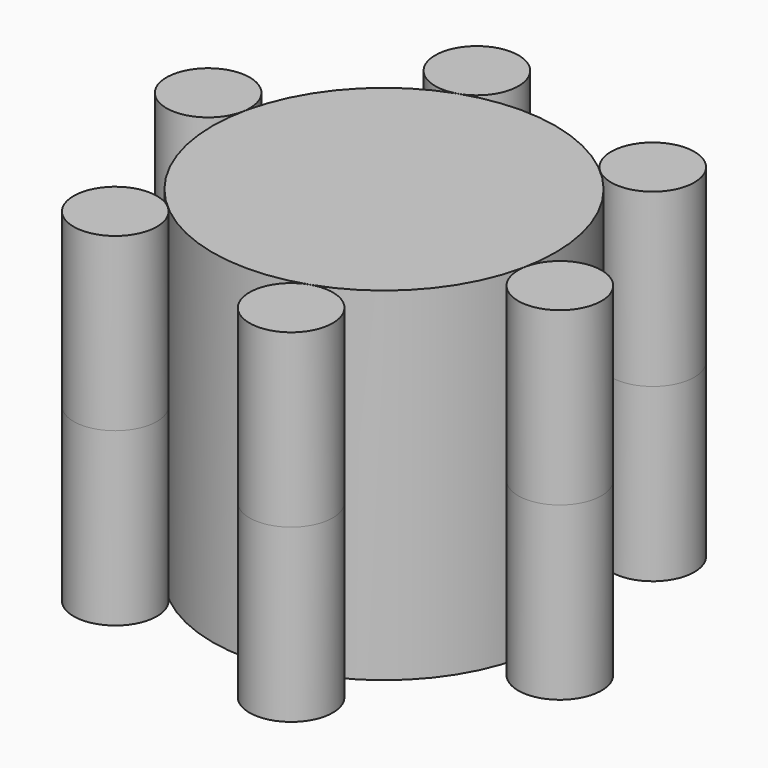
from build123d import *

# Parameters (mm, degrees)
F1_DEPTH = 50
F2_COUNT = 6


with BuildPart() as f1:
    # F0 (on Top) → F1 (new body, symmetric)
    with BuildSketch(Plane.XY):
        with BuildLine():
            ThreePointArc((-48.8104737327, 12.1009636917), (-73.0439579638, 13.289177391), (-49.0429563013, 9.7359353544))
            ThreePointArc((-49.0429563013, 9.7359353544), (-48.8687341043, 10.9127499924), (-48.8104737327, 12.1009636917))
        make_face()
    extrude(amount=F1_DEPTH, both=True)


with BuildPart() as f1b:
    # F0 (on Top) → F1, piece 2 (new body, symmetric)
    with BuildSketch(Plane.XY):
        with BuildLine():
            ThreePointArc((-49.0429563013, 9.7359353544), (-4.8914305133, -49.7601638616), (50, 0))
            ThreePointArc((50, 0), (4.8914305133, 49.7601638616), (-49.0429563013, 9.7359353544))
        make_face()
    extrude(amount=F1_DEPTH, both=True)


with BuildPart() as f2_1:
    # F2: instance of F1
    add(f1.part.rotate(Axis((0, 0, 0), (0, 0, 1)), 1 * 360 / F2_COUNT))


with BuildPart() as f2_2:
    # F2: instance of F1
    add(f1.part.rotate(Axis((0, 0, 0), (0, 0, 1)), 2 * 360 / F2_COUNT))


with BuildPart() as f2_3:
    # F2: instance of F1
    add(f1.part.rotate(Axis((0, 0, 0), (0, 0, 1)), 3 * 360 / F2_COUNT))


with BuildPart() as f2_4:
    # F2: instance of F1
    add(f1.part.rotate(Axis((0, 0, 0), (0, 0, 1)), 4 * 360 / F2_COUNT))


with BuildPart() as f2_5:
    # F2: instance of F1
    add(f1.part.rotate(Axis((0, 0, 0), (0, 0, 1)), 5 * 360 / F2_COUNT))


solid = Compound([f1.part, f1b.part, f2_1.part, f2_2.part, f2_3.part, f2_4.part, f2_5.part])
